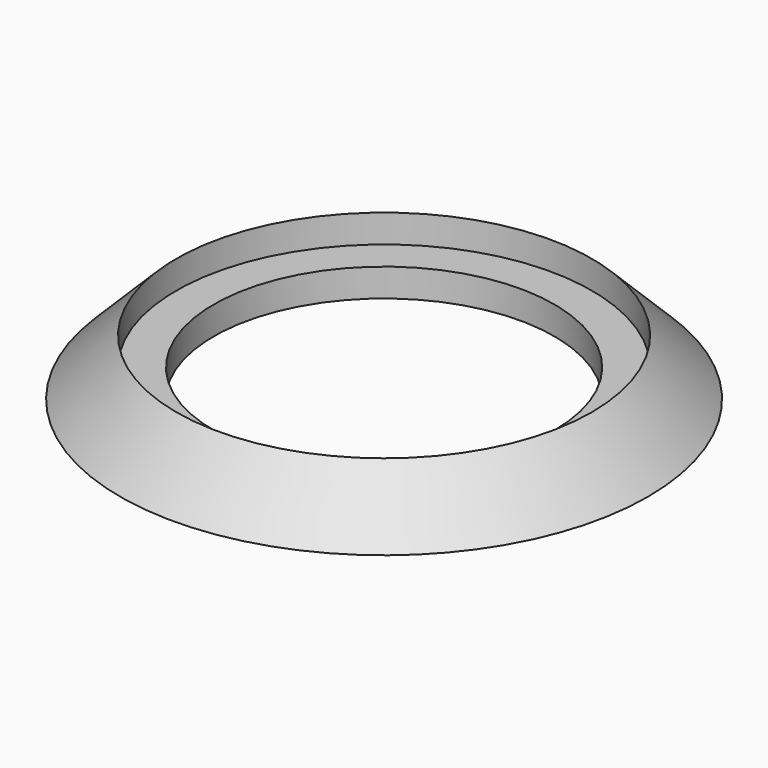
from build123d import *

# Parameters (mm, degrees)
F0_W = 2
F0_H = 1.5


with BuildPart() as f1:
    # F0 (on Front) → F1 (revolve)
    with BuildSketch(Plane.XZ):
        Polygon((14.1, -6.303975), (11.1, -3.303975), (11.1, -4.803975), (11.1, -6.303975), align=None)
        with Locations((10.1, -5.553975)):
            Rectangle(F0_W, F0_H)
    revolve(axis=Axis((0, 0, 0.589413), (0, 0, 1)))


solid = f1.part
